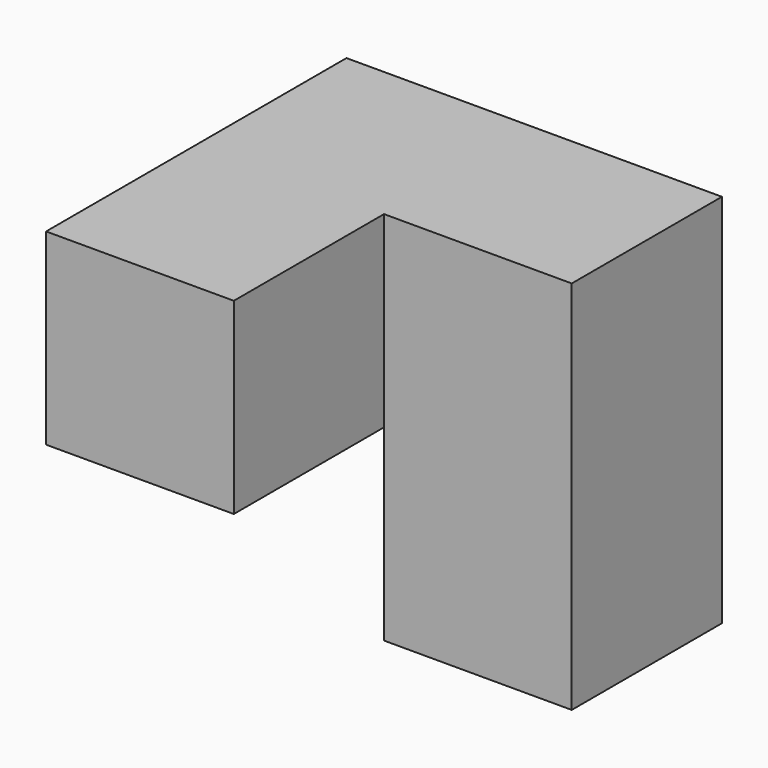
from build123d import *

# Parameters (mm, degrees)
F1_DEPTH = 19.05
F2_W     = 19.05
F2_H     = 19.05
F3_DEPTH = 19.05


with BuildPart() as f1:
    # F0 (on Top) → F1 (new body)
    with BuildSketch(Plane.XY):
        Polygon((0, 38.1), (0, 0), (19.05, 0), (19.05, 19.05), (38.1, 19.05), (38.1, 38.1), align=None)
    extrude(amount=F1_DEPTH)

    # F2 (on face) → F3 (join)
    with BuildSketch(Plane(origin=(0, 0, 0), x_dir=(1, 0, 0), z_dir=(0, 0, -1))):
        with Locations((28.575, -28.575)):
            Rectangle(F2_W, F2_H)
    extrude(amount=F3_DEPTH)


solid = f1.part
